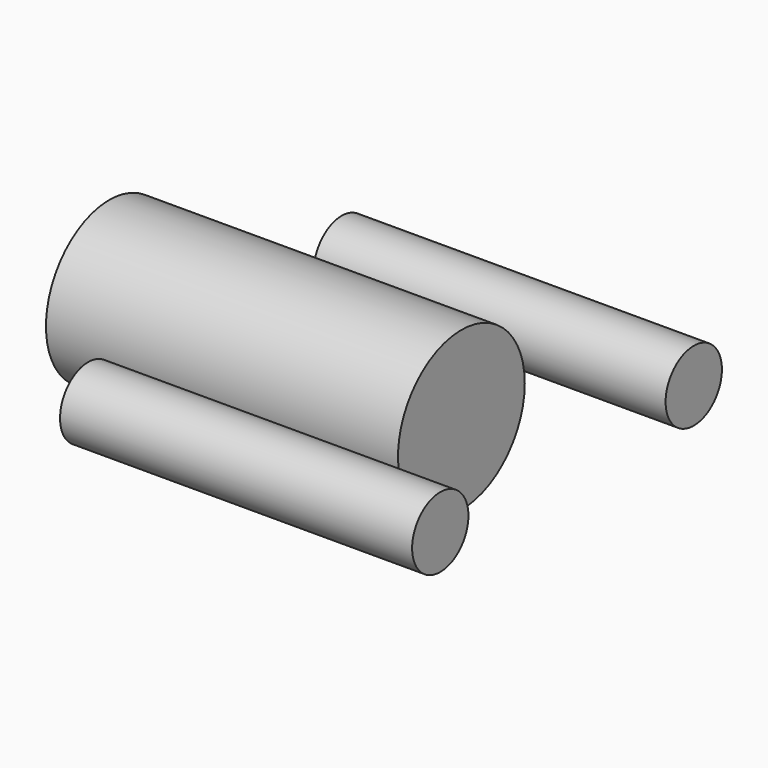
from build123d import *

# Parameters (mm, degrees)
CYLINDER033_R             = 1
CYLINDER033_DEPTH         = 10
CYLINDER032_R             = 1
CYLINDER032_DEPTH         = 10
CYLINDER031_R             = 2.25
CYLINDER031_DEPTH         = 10
FUSION071_ROLL_ANGLE      = 90
FUSION071_PLACEMENT_ANGLE = 90


with BuildPart() as cylinder085:
    # Cylinder033 → Cylinder033 (new body)
    with BuildSketch(Plane(origin=(-4.5, 18, 32), x_dir=(1, 0, 0), z_dir=(0, 0, 1))):
        Circle(CYLINDER033_R)
    extrude(amount=CYLINDER033_DEPTH)


with BuildPart() as mounting_screw_holes:
    # Cylinder032 → Cylinder032 (new body)
    with BuildSketch(Plane(origin=(4.5, 18, 32), x_dir=(1, 0, 0), z_dir=(0, 0, 1))):
        Circle(CYLINDER032_R)
    extrude(amount=CYLINDER032_DEPTH)

    # Fusion009: union Cylinder085
    add(cylinder085.part)


with BuildPart() as motor_holes_left:
    # Cylinder031 → Cylinder031 (new body)
    with BuildSketch(Plane(origin=(0, 18, 29), x_dir=(1, 0, 0), z_dir=(0, 0, 1))):
        Circle(CYLINDER031_R)
    extrude(amount=CYLINDER031_DEPTH)

    # Fusion071: union Mounting Screw Holes
    add(mounting_screw_holes.part)


with BuildPart() as motor_holes_left_1:
    # Fusion071 roll: moved
    add(motor_holes_left.part.rotate(Axis((0, 0, 0), (1, 0, 0)), FUSION071_ROLL_ANGLE))


with BuildPart() as motor_holes_left_2:
    # Fusion071 placement: moved
    add(motor_holes_left_1.part.moved(Location((37, -7, -3))).rotate(Axis((37, -7, -3), (0, 0, 1)), FUSION071_PLACEMENT_ANGLE))


solid = motor_holes_left_2.part
